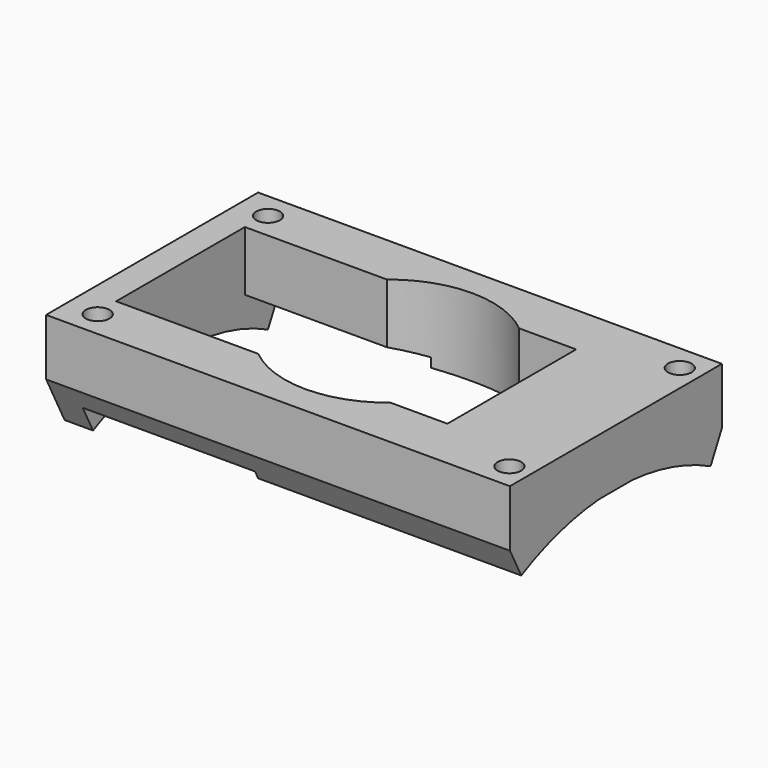
from build123d import *

# Parameters (mm, degrees)
REVOLUTION_ANGLE     = -54.075512
SKETCH002_W          = 49
SKETCH002_H          = 28
PAD_DEPTH            = 6
SKETCH003_W          = 35
SKETCH003_H          = 17
POCKET001_DEPTH      = 0.001
POCKET001_DEPTH_BACK = 33.411
SKETCH004_R          = 1.25
POCKET_DEPTH         = 3.1
SKETCH001_W          = 59
SKETCH001_H          = 38
SKETCH001_W_2        = 49
SKETCH001_H_2        = 28
POCKET005_DEPTH      = 5.778131
SKETCH009_R          = 11
POCKET006_DEPTH      = 33.411


with BuildPart() as part:
    # Sketch → Revolution (revolve, symmetric)
    with BuildSketch(Plane.XZ) as revolution_sk:
        Polygon((-3, 31.41), (46, 31.41), (46, 27.5), (18.2, 27.5), (18.2, 28.41), (0, 28.41), (0, 25.41), (-3, 25.41), align=None)
    revolve(axis=Axis((0, 0, 0), (1, 0, 0)), revolution_arc=REVOLUTION_ANGLE / 2)
    revolve(revolution_sk.sketch, axis=Axis((0, 0, 0), (-1, 0, 0)), revolution_arc=REVOLUTION_ANGLE / 2)

    # Sketch002 → Pad (new body)
    with BuildSketch(Plane.XY.offset(27.41)):
        with Locations((21.5, 0)):
            Rectangle(SKETCH002_W, SKETCH002_H)
    extrude(amount=PAD_DEPTH)

    # Sketch003 → Pocket001 (cut, two sides)
    with BuildSketch(Plane.XY) as pocket001_sk:
        with Locations((17.5, 0)):
            Rectangle(SKETCH003_W, SKETCH003_H)
    extrude(amount=-POCKET001_DEPTH, mode=Mode.SUBTRACT)
    extrude(pocket001_sk.sketch, amount=POCKET001_DEPTH_BACK, mode=Mode.SUBTRACT)

    # Sketch004 → Pocket (cut)
    with BuildSketch(Plane.XY.offset(33.51)):
        with Locations((43.75, 11.25)):
            Circle(SKETCH004_R)
        with Locations((0.25, 11.25)):
            Circle(SKETCH004_R)
        with Locations((0.25, -11.25)):
            Circle(SKETCH004_R)
        with Locations((43.75, -11.25)):
            Circle(SKETCH004_R)
    extrude(amount=-POCKET_DEPTH, mode=Mode.SUBTRACT)

    # Sketch001 → Pocket005 (cut, through all)
    with BuildSketch(Plane.XY.offset(28.41)):
        with Locations((21.5, 0)):
            Rectangle(SKETCH001_W, SKETCH001_H)
        with Locations((21.5, 0)):
            Rectangle(SKETCH001_W_2, SKETCH001_H_2, mode=Mode.SUBTRACT)
    extrude(amount=-POCKET005_DEPTH, mode=Mode.SUBTRACT)

    # Sketch009 → Pocket006 (cut, through all)
    with BuildSketch(Plane.XY):
        with Locations((22, 0)):
            Circle(SKETCH009_R)
    extrude(amount=POCKET006_DEPTH, mode=Mode.SUBTRACT)


solid = part.part
